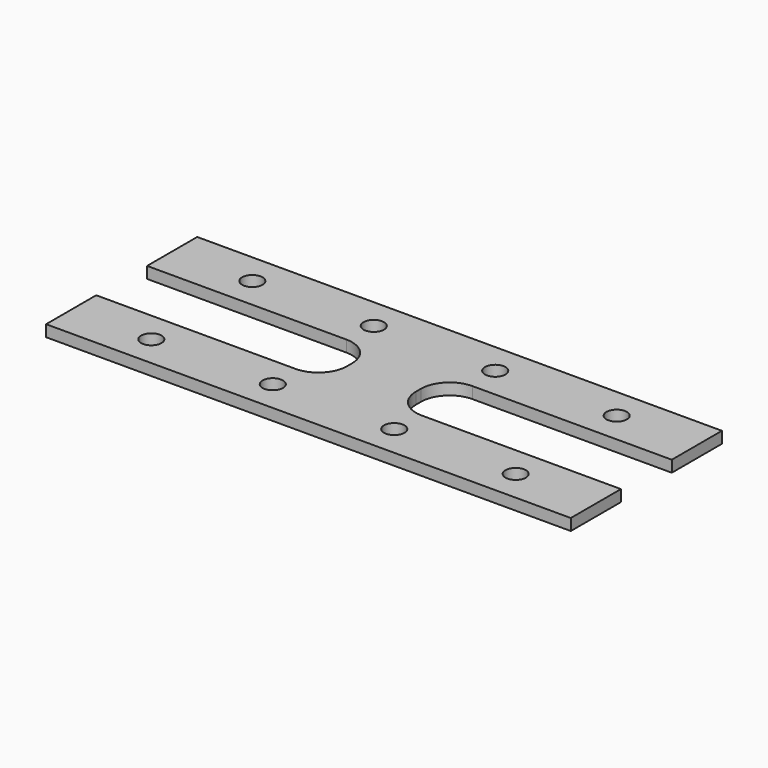
from build123d import *

# Parameters (mm, degrees)
F0_R     = 1.778
F1_DEPTH = 2


with BuildPart() as f1:
    # F0 (on Top) → F1 (new body)
    with BuildSketch(Plane.XY):
        with BuildLine():
            Line((0, 10.922), (0, 0))
            Line((0, 0), (91.44, 0))
            Line((91.44, 0), (91.44, 10.922))
            Line((91.44, 10.922), (56.72, 10.922))
            ThreePointArc((56.72, 10.922), (53.184466, 12.386466), (51.72, 15.922))
            Line((51.72, 15.922), (51.72, 17))
            ThreePointArc((51.72, 17), (53.184466, 20.535534), (56.72, 22))
            Line((56.72, 22), (91.44, 22))
            Line((91.44, 22), (91.44, 32.922))
            Line((91.44, 32.922), (0, 32.922))
            Line((0, 32.922), (0, 22))
            Line((0, 22), (34.72, 22))
            ThreePointArc((34.72, 22), (38.255534, 20.535534), (39.72, 17))
            Line((39.72, 17), (39.72, 15.922))
            ThreePointArc((39.72, 15.922), (38.255534, 12.386466), (34.72, 10.922))
            Line((34.72, 10.922), (0, 10.922))
        make_face()
        with Locations((13.97, 5.461)):
            Circle(F0_R, mode=Mode.SUBTRACT)
        with Locations((35.136667, 5.461)):
            Circle(F0_R, mode=Mode.SUBTRACT)
        with Locations((56.303333, 5.461)):
            Circle(F0_R, mode=Mode.SUBTRACT)
        with Locations((77.47, 5.461)):
            Circle(F0_R, mode=Mode.SUBTRACT)
        with Locations((13.97, 27.461)):
            Circle(F0_R, mode=Mode.SUBTRACT)
        with Locations((35.136667, 27.461)):
            Circle(F0_R, mode=Mode.SUBTRACT)
        with Locations((56.303333, 27.461)):
            Circle(F0_R, mode=Mode.SUBTRACT)
        with Locations((77.47, 27.461)):
            Circle(F0_R, mode=Mode.SUBTRACT)
    extrude(amount=F1_DEPTH)


solid = f1.part
